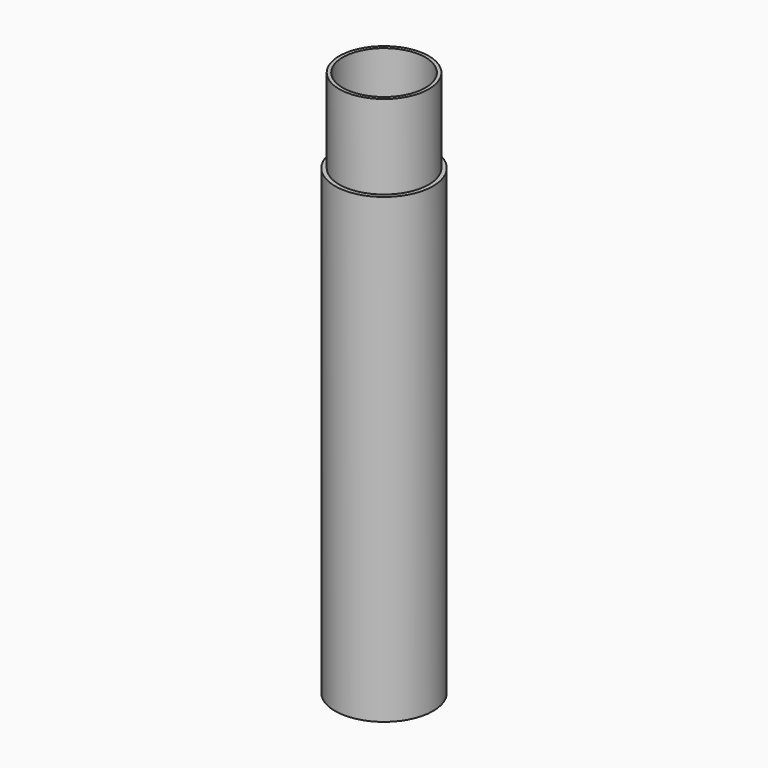
from build123d import *

# Parameters (mm, degrees)
F0_R     = 16
F0_R_2   = 14.75
F1_DEPTH = 195
F0_R_3   = 17.5
F2_DEPTH = 165
F3_DEPTH = 35


with BuildPart() as f1:
    # F0 (on Top) → F1 (new body)
    with BuildSketch(Plane.XY):
        Circle(F0_R)
        Circle(F0_R_2, mode=Mode.SUBTRACT)
    extrude(amount=F1_DEPTH)

    # F0 (on Top) → F2 (join)
    with BuildSketch(Plane.XY):
        Circle(F0_R_3)
        Circle(F0_R, mode=Mode.SUBTRACT)
    extrude(amount=F2_DEPTH)

    # F0 (on Top) → F3 (cut)
    with BuildSketch(Plane.XY):
        Circle(F0_R)
        Circle(F0_R_2, mode=Mode.SUBTRACT)
    extrude(amount=F3_DEPTH, mode=Mode.SUBTRACT)


solid = f1.part
